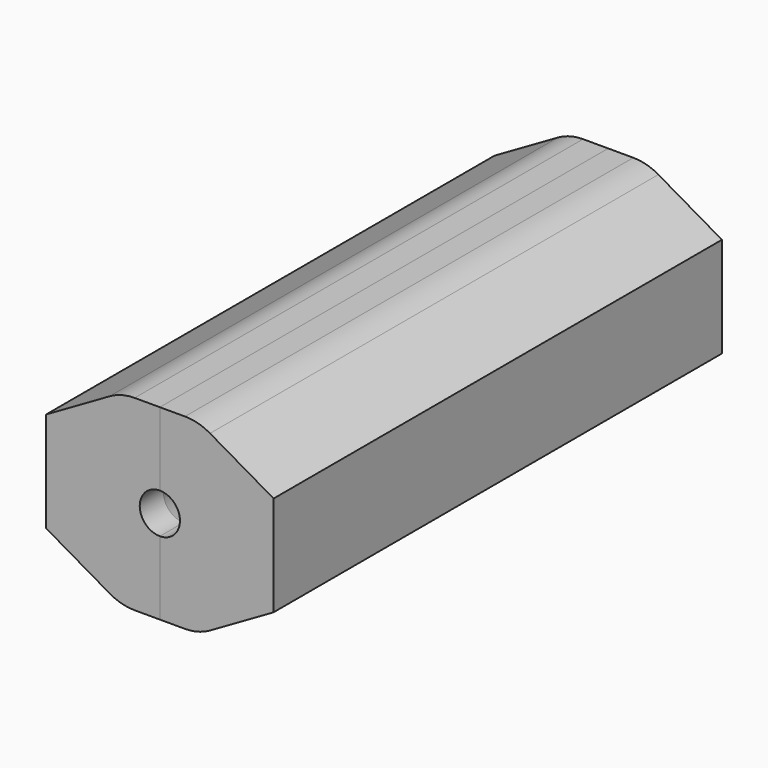
from build123d import *

# Parameters (mm, degrees)
F1_ANGLE_BACK = 90
F1_ANGLE      = 180
F3_DEPTH      = 113.6
F5_SIZE2      = 8.7988181024
F5_SIZE       = 15.24
F5_2_SIZE2    = 8.7988181024
F5_2_SIZE     = 15.24
F6_R          = 10.16
F7_R          = 3
F10_DEPTH     = 23.0597814003


with BuildPart() as f1:
    # F0 (on Top) → F1 (revolve)
    with BuildSketch(Plane.XY, mode=Mode.PRIVATE) as f1_sk:
        Polygon((-15.95, 13.335), (-4.95, 50.8), (-4.95, 56.8), (-18.95, 56.8), (-18.95, -56.8), (-4.075, -56.8), (-4.075, -50.8), (-15.95, -13.335), (-15.95, 0), align=None)
    revolve(f1_sk.sketch.rotate(Axis((0, 0.9961221367, 0), (0, -1, 0)), -F1_ANGLE_BACK), axis=Axis((0, 0.9961221367, 0), (0, -1, 0)), revolution_arc=F1_ANGLE)

    # F2 (on face) → F3 (join, through all)
    with BuildSketch(Plane(origin=(0, 56.8, 0), x_dir=(-1, 0, 0), z_dir=(0, 1, 0))):
        with BuildLine():
            Line((23.0587814003, 18.95), (0, 18.95))
            ThreePointArc((0, 18.95), (18.95, 0), (0, -18.95))
            Line((0, -18.95), (23.0587814003, -18.95))
            Line((23.0587814003, -18.95), (23.0587814003, 18.95))
        make_face()
    extrude(amount=-F3_DEPTH)

    # F5
    f5_edges = [f1.edges().sort_by_distance(p)[0] for p in [
        (-23.058781, 0, -18.95),
    ]]
    f5_side = f1.faces().sort_by_distance((-11.529391, 0, -18.95))[0]
    chamfer(f5_edges, length=F5_SIZE, length2=F5_SIZE2, reference=f5_side)

    # F5#2
    f5_2_edges = [f1.edges().sort_by_distance(p)[0] for p in [
        (-23.058781, 0, 18.95),
    ]]
    f5_2_side = f1.faces().sort_by_distance((-11.529391, 0, 18.95))[0]
    chamfer(f5_2_edges, length=F5_2_SIZE, length2=F5_2_SIZE2, reference=f5_2_side)

    # F6
    f6_edges = [f1.edges().sort_by_distance(p)[0] for p in [
        (-7.818781, 0, 18.95),
        (-7.818781, 0, -18.95),
    ]]
    fillet(f6_edges, radius=F6_R)


with BuildPart() as f9_1:
    # F9: instance of F1
    add(f1.part.mirror(Plane.YZ))


with BuildPart() as f1_1:
    add(f1.part)

    # F7 (on face) → F10 (cut, through all)
    with BuildSketch(Plane.YZ):
        with Locations((-5.08, 0)):
            Circle(F7_R)
        with Locations((5.08, 0)):
            Circle(F7_R)
    extrude(amount=-F10_DEPTH, mode=Mode.SUBTRACT)


solid = Compound([f9_1.part, f1_1.part])
